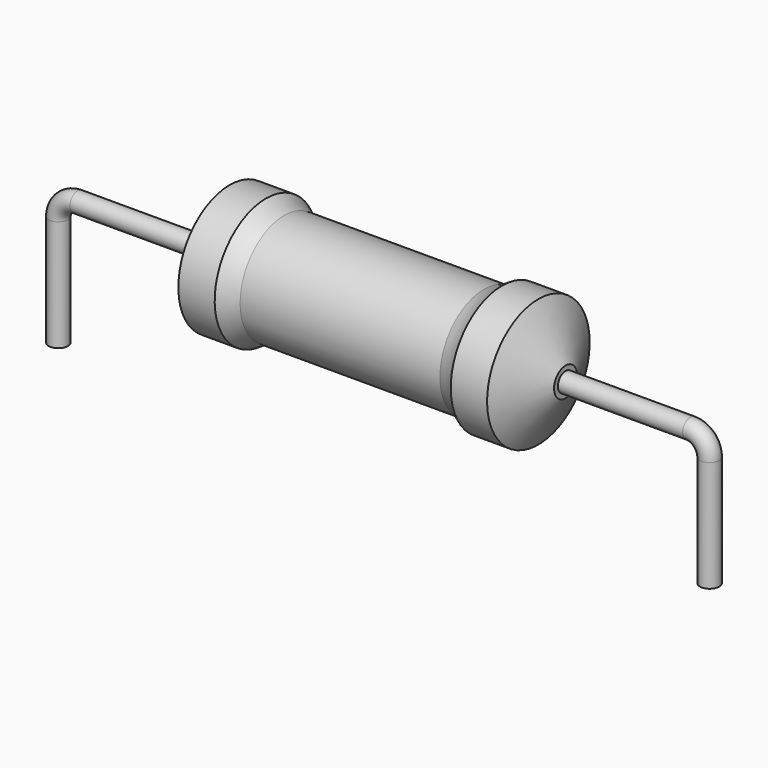
from build123d import *

# Parameters (mm, degrees)
SKETCH_R = 0.45


with BuildPart() as revolution:
    # Sketch002 → Revolution (revolve)
    with BuildSketch(Plane.XZ):
        with BuildLine():
            Line((8.015, 6.1), (9.715, 6.1))
            ThreePointArc((9.715, 6.1), (10.122413, 5.852326), (10.565, 5.675))
            Line((10.565, 5.675), (19.915, 5.675))
            ThreePointArc((19.915, 5.675), (20.357587, 5.852326), (20.765, 6.1))
            Line((20.765, 6.1), (22.465, 6.1))
            ThreePointArc((23.74, 3.775), (23.106169, 4.939512), (22.465, 6.1))
            Line((23.74, 3.1), (23.74, 3.775))
            Line((6.74, 3.1), (23.74, 3.1))
            Line((6.74, 3.1), (6.74, 3.775))
            ThreePointArc((8.015, 6.1), (7.373831, 4.939512), (6.74, 3.775))
        make_face()
    revolve(axis=Axis((6.74, 0, 3.1), (1, 0, 0)))


with BuildPart() as sweep_body:
    # Sweep: sweep along a path in Sketch001
    with BuildLine(Plane.XZ) as sweep_path:
        Line((0, -3), (0, 2.2))
        ThreePointArc((0, 2.2), (0.263601, 2.836393), (0.899992, 3.1))
        Line((0.899992, 3.1), (29.58, 3.1))
        ThreePointArc((29.58, 3.1), (30.216396, 2.836396), (30.48, 2.2))
        Line((30.48, 2.2), (30.48, -3))
    # Sketch → Sweep (sweep)
    with BuildSketch(Plane.XY.offset(-2)):
        Circle(SKETCH_R)
    sweep(path=sweep_path.line)


solid = Compound([revolution.part, sweep_body.part])
